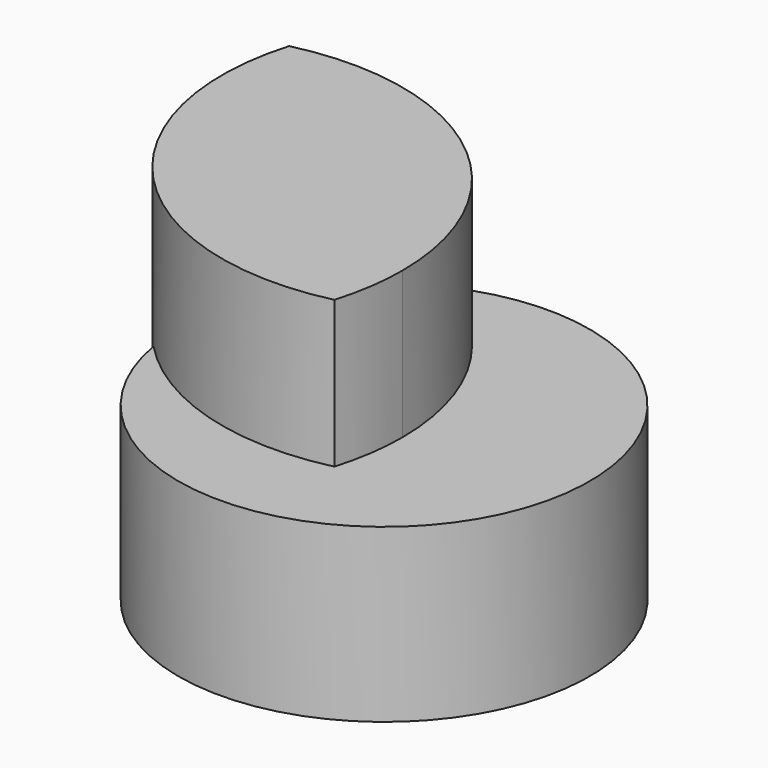
from build123d import *

# Parameters (mm, degrees)
F1_DEPTH = 79.7431990504
F2_R     = 51.4914166582
F3_DEPTH = 42.9878607392


with BuildPart() as f1:
    # F0 (on Top) → F1 (new body)
    with BuildSketch(Plane.XY):
        with BuildLine():
            ThreePointArc((59.4567734908, -17.959831154), (61.4431814062, -9.0773844086), (62.1100913621, 0))
            ThreePointArc((62.1100913621, 0), (38.4326376275, 48.7913497867), (-14.5472041529, 60.3824668289))
            ThreePointArc((-14.5472041529, 60.3824668289), (-0.1204630885, -0.1137922672), (59.4567734908, -17.959831154))
        make_face()
    extrude(amount=F1_DEPTH)

    # F2 (on Top) → F3 (join)
    with BuildSketch(Plane.XY):
        with Locations((50.8008064343, 8.4050017903)):
            Circle(F2_R)
    extrude(amount=F3_DEPTH)


solid = f1.part
